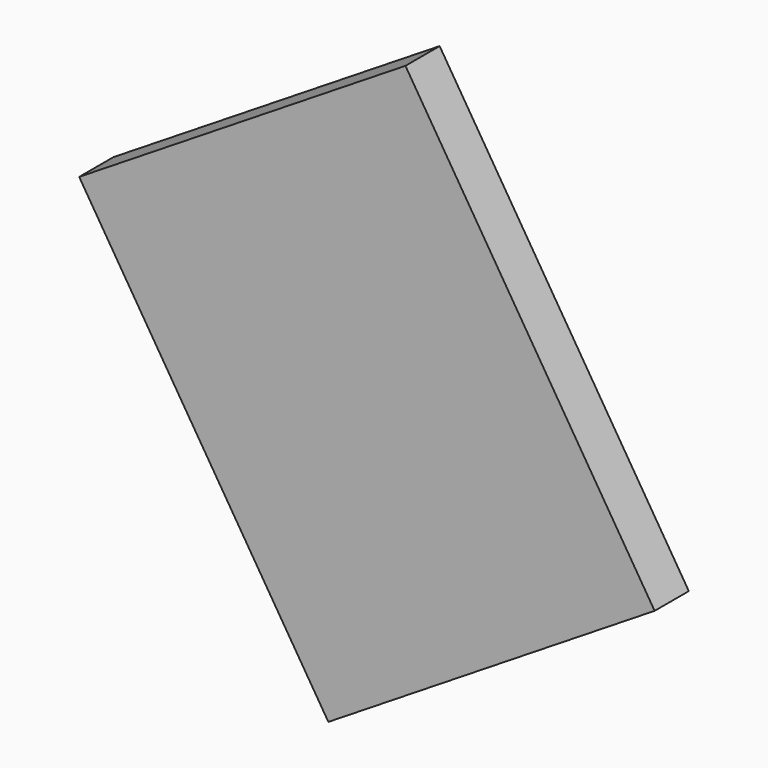
from build123d import *

# Parameters (mm, degrees)
CYLINDER073_R      = 0.5
CYLINDER073_DEPTH  = 0.01
BOX164_W           = 4.5
BOX164_H           = 5.5
BOX164_DEPTH       = 0.5
CUT080_ROLL_ANGLE  = -90
CUT080_PITCH_ANGLE = -32


with BuildPart() as cylinder073:
    # Cylinder073 → Cylinder073 (new body)
    with BuildSketch(Plane(origin=(1, 4.5, 0.49), x_dir=(1, 0, 0), z_dir=(0, 0, 1))):
        Circle(CYLINDER073_R)
    extrude(amount=CYLINDER073_DEPTH)


with BuildPart() as obj1:
    # Box164 → Box164 (new body)
    with BuildSketch(Plane.XY):
        with Locations((2.25, 2.75)):
            Rectangle(BOX164_W, BOX164_H)
    extrude(amount=BOX164_DEPTH)

    # Cut080: cut Cylinder073
    add(cylinder073.part, mode=Mode.SUBTRACT)


with BuildPart() as obj1_1:
    # Cut080 roll: moved
    add(obj1.part.rotate(Axis((0, 0, 0), (1, 0, 0)), CUT080_ROLL_ANGLE))


with BuildPart() as obj1_2:
    # Cut080 pitch: moved
    add(obj1_1.part.rotate(Axis((0, 0, 0), (0, 1, 0)), CUT080_PITCH_ANGLE))


with BuildPart() as obj1_3:
    # Cut080 placement: moved
    add(obj1_2.part.moved(Location((6.020438, 2.79, 45.877147))))


solid = obj1_3.part
